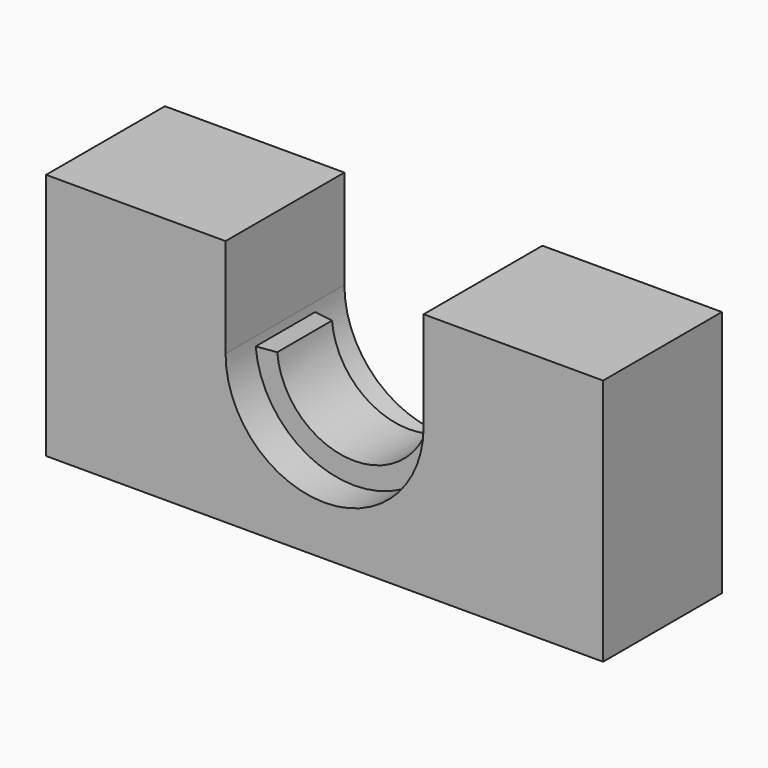
from build123d import *

# Parameters (mm, degrees)
F0_W          = 45
F0_H          = 12
F1_DEPTH      = 20
F3_DEPTH      = 12.001
F5_ANGLE_BACK = 85
F5_ANGLE      = 170


with BuildPart() as f1:
    # F0 (on Top) → F1 (new body)
    with BuildSketch(Plane.XY):
        with Locations((0, 6)):
            Rectangle(F0_W, F0_H)
    extrude(amount=F1_DEPTH)

    # F2 (on face) → F3 (cut, through all)
    with BuildSketch(Plane(origin=(0, 12, 0), x_dir=(-1, 0, 0), z_dir=(0, 1, 0))):
        with BuildLine():
            ThreePointArc((-8, 12), (0, 4), (8, 12))
            Line((8, 12), (8, 20))
            Line((8, 20), (-8, 20))
            Line((-8, 20), (-8, 12))
        make_face()
    extrude(amount=-F3_DEPTH, mode=Mode.SUBTRACT)

    # F4 (on Right) → F5 (revolve)
    with BuildSketch(Plane.YZ, mode=Mode.PRIVATE) as f5_sk:
        Polygon((3, 4), (9, 4), (8.5310889132, 5.75), (3, 5.75), align=None)
    revolve(f5_sk.sketch.rotate(Axis((0, 6, 12), (0, -1, 0)), -F5_ANGLE_BACK), axis=Axis((0, 6, 12), (0, -1, 0)), revolution_arc=F5_ANGLE)


solid = f1.part
